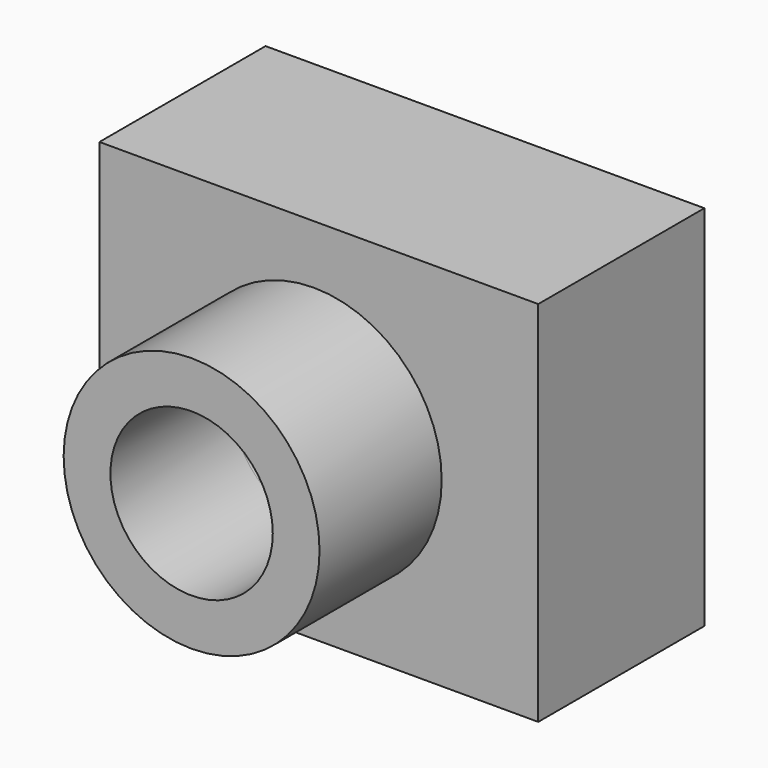
from build123d import *

# Parameters (mm, degrees)
F0_W     = 73.004455
F0_H     = 61.200289
F1_DEPTH = 34.544
F2_R     = 13.504776
F3_DEPTH = 69.342
F2_R_2   = 21.287393
F4_DEPTH = 25.4


with BuildPart() as f1:
    # F0 (on Front) → F1 (new body)
    with BuildSketch(Plane.XZ):
        with Locations((-15.354115, -8.777854)):
            Rectangle(F0_W, F0_H)
    extrude(amount=-F1_DEPTH)

    # F2 (on face) → F3 (cut)
    with BuildSketch(Plane.XZ):
        with Locations((-16.202834, -9.201426)):
            Circle(F2_R)
    extrude(amount=-F3_DEPTH, mode=Mode.SUBTRACT)

    # F2 (on face) → F4 (join)
    with BuildSketch(Plane.XZ):
        with Locations((-16.202834, -9.201426)):
            Circle(F2_R_2)
        with Locations((-16.202834, -9.201426)):
            Circle(F2_R, mode=Mode.SUBTRACT)
    extrude(amount=F4_DEPTH)


solid = f1.part
